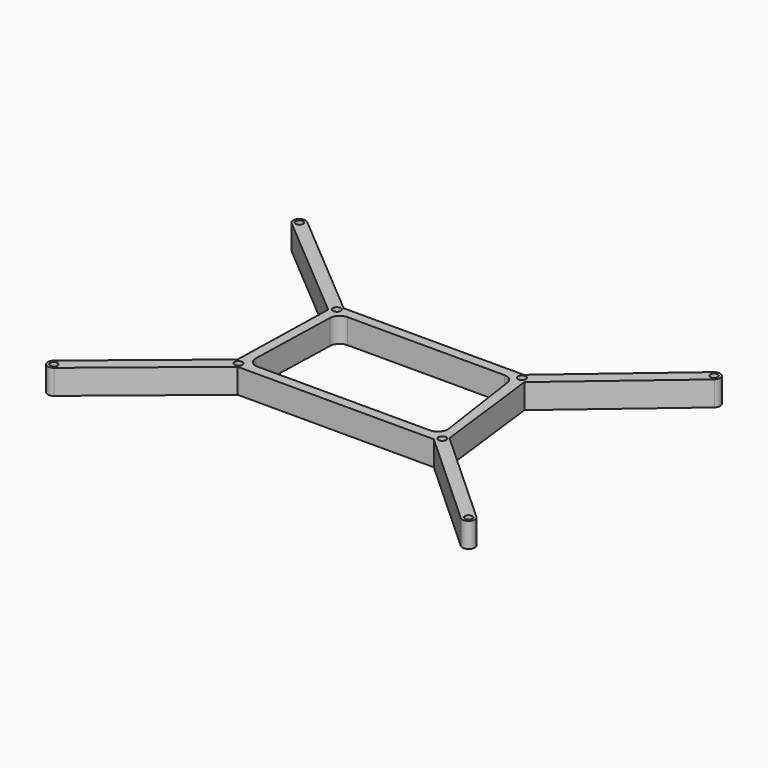
from build123d import *

# Parameters (mm, degrees)
F0_R     = 1.5
F0_R_2   = 1.5875
F1_DEPTH = 10


with BuildPart() as f1:
    # F0 (on Top) → F1 (new body)
    with BuildSketch(Plane.XY):
        with BuildLine():
            Line((-32.849184, 87.967323), (13.147304, 48.98559))
            Line((13.147304, 48.98559), (12.063893, 4.403652))
            Line((12.063893, 4.403652), (-32.819675, -32.464498))
            ThreePointArc((-32.819675, -32.464498), (-33.164666, -35.98316), (-29.646004, -36.32815))
            Line((-29.646004, -36.32815), (15.237564, 0.54))
            Line((15.237564, 0.54), (94.702337, 0.54))
            Line((94.702337, 0.54), (135.04706, -36.24374))
            ThreePointArc((135.04706, -36.24374), (138.578832, -36.08068), (138.415772, -32.548908))
            Line((138.415772, -32.548908), (98.071049, 4.234832))
            Line((98.071049, 4.234832), (92.632338, 48.994998))
            Line((92.632338, 48.994998), (138.353295, 87.972027))
            ThreePointArc((138.353295, 87.972027), (138.633917, 91.496407), (135.109537, 91.777029))
            Line((135.109537, 91.777029), (89.388581, 52.8))
            Line((89.388581, 52.8), (16.379992, 52.8))
            Line((16.379992, 52.8), (-29.616495, 91.781733))
            ThreePointArc((-29.616495, 91.781733), (-33.140045, 91.490873), (-32.849184, 87.967323))
        make_face()
        with Locations((-31.232839, -34.396324)):
            Circle(F0_R, mode=Mode.SUBTRACT)
        with Locations((13.97, 2.54)):
            Circle(F0_R_2, mode=Mode.SUBTRACT)
        with Locations((136.731416, -34.396324)):
            Circle(F0_R, mode=Mode.SUBTRACT)
        with BuildLine():
            ThreePointArc((17.128516, 44.914729), (18.339301, 47.668703), (21.12687, 48.8))
            Line((21.12687, 48.8), (84.702924, 48.8))
            ThreePointArc((84.702924, 48.8), (87.322823, 47.822603), (88.662381, 45.368065))
            Line((88.662381, 45.368065), (93.864618, 9.108065))
            ThreePointArc((93.864618, 9.108065), (92.927764, 5.920101), (89.905161, 4.54))
            Line((89.905161, 4.54), (20.086423, 4.54))
            ThreePointArc((20.086423, 4.54), (17.217719, 5.752431), (16.088068, 8.654729))
            Line((16.088068, 8.654729), (17.128516, 44.914729))
        make_face(mode=Mode.SUBTRACT)
        with Locations((96.52, 2.54)):
            Circle(F0_R_2, mode=Mode.SUBTRACT)
        with Locations((15.24, 50.8)):
            Circle(F0_R_2, mode=Mode.SUBTRACT)
        with Locations((-31.232839, 89.874528)):
            Circle(F0_R, mode=Mode.SUBTRACT)
        with Locations((90.17, 50.8)):
            Circle(F0_R_2, mode=Mode.SUBTRACT)
        with Locations((136.731416, 89.874528)):
            Circle(F0_R, mode=Mode.SUBTRACT)
    extrude(amount=F1_DEPTH)


solid = f1.part
